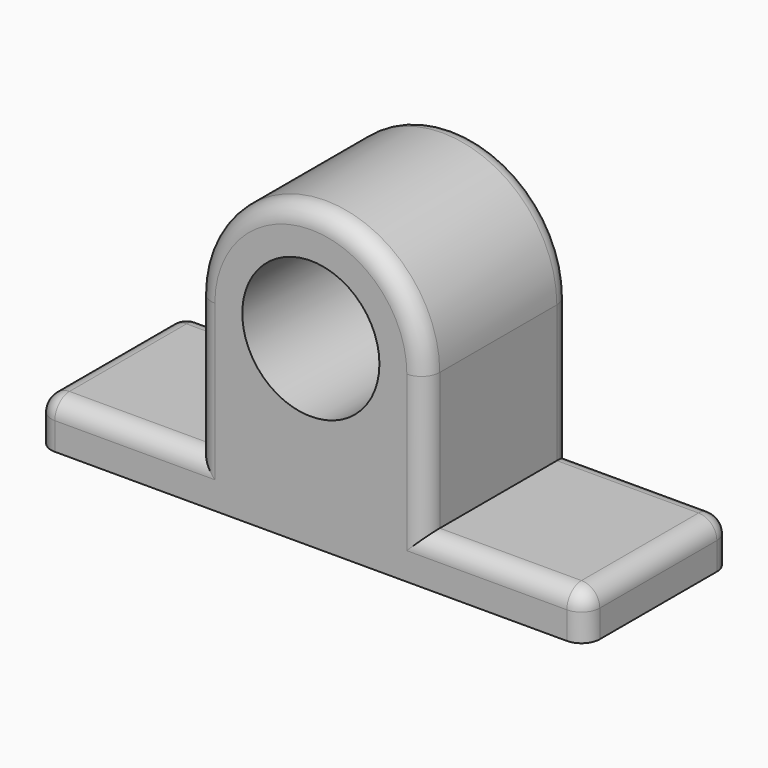
from build123d import *

# Parameters (mm, degrees)
F0_R     = 9.525
F1_DEPTH = 25.4
F2_R     = 2.54


with BuildPart() as f1:
    # F0 (on Front) → F1 (new body)
    with BuildSketch(Plane.XZ):
        with BuildLine():
            Line((15.875, -19.05), (15.875, 0))
            ThreePointArc((15.875, 0), (0, 15.875), (-15.875, 0))
            Line((-15.875, 0), (-15.875, -19.05))
            Line((-15.875, -19.05), (-38.1, -19.05))
            Line((-38.1, -19.05), (-38.1, -25.4))
            Line((-38.1, -25.4), (0, -25.4))
            Line((0, -25.4), (38.1, -25.4))
            Line((38.1, -25.4), (38.1, -19.05))
            Line((38.1, -19.05), (15.875, -19.05))
        make_face()
        Circle(F0_R, mode=Mode.SUBTRACT)
    extrude(amount=F1_DEPTH)

    # F2
    f2_edges = [f1.edges().sort_by_distance(p)[0] for p in [
        (0, -25.4, 15.875),
        (0, 0, 15.875),
        (-15.875, -25.4, -9.525),
        (15.875, -25.4, -9.525),
        (26.9875, -25.4, -19.05),
        (-26.9875, -25.4, -19.05),
        (-38.1, -12.7, -19.05),
        (-26.9875, 0, -19.05),
        (-15.875, 0, -9.525),
        (15.875, 0, -9.525),
        (26.9875, 0, -19.05),
        (38.1, -12.7, -19.05),
        (-38.1, -25.4, -22.225),
        (-38.1, 0, -22.225),
        (38.1, 0, -22.225),
        (38.1, -25.4, -22.225),
    ]]
    fillet(f2_edges, radius=F2_R)


solid = f1.part
